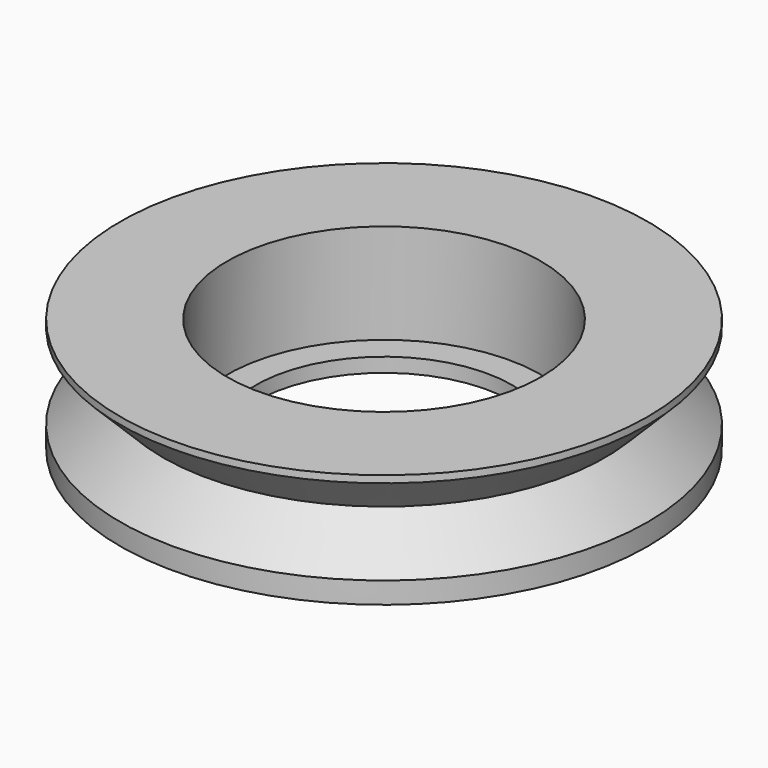
from build123d import *

# Parameters (mm, degrees)
F0_R     = 18.5
F0_R_2   = 11
F1_DEPTH = 7
F2_DEPTH = 1
F3_R     = 9
F4_DEPTH = 25


with BuildPart() as f1:
    # F0 (on Top) → F1 (new body)
    with BuildSketch(Plane.XY):
        Circle(F0_R)
        Circle(F0_R_2, mode=Mode.SUBTRACT)
    extrude(amount=F1_DEPTH)

    # F0 (on Top) → F2 (join)
    with BuildSketch(Plane.XY):
        Circle(F0_R)
        Circle(F0_R_2, mode=Mode.SUBTRACT)
        Circle(F0_R_2)
    extrude(amount=-F2_DEPTH)

    # F3 (on face) → F4 (cut)
    with BuildSketch(Plane(origin=(0, 0, -1), x_dir=(1, 0, 0), z_dir=(0, 0, -1))):
        Circle(F3_R)
    extrude(amount=-F4_DEPTH, mode=Mode.SUBTRACT)

    # F5 (on Front) → F6 (revolve, cut)
    with BuildSketch(Plane.XZ):
        Polygon((-18.5, 6.5), (-18.5, 0.5), (-15.5, 3.5), align=None)
    revolve(axis=Axis((0, 0, 3.0658829492), (0, 0, -1)), mode=Mode.SUBTRACT)


solid = f1.part
